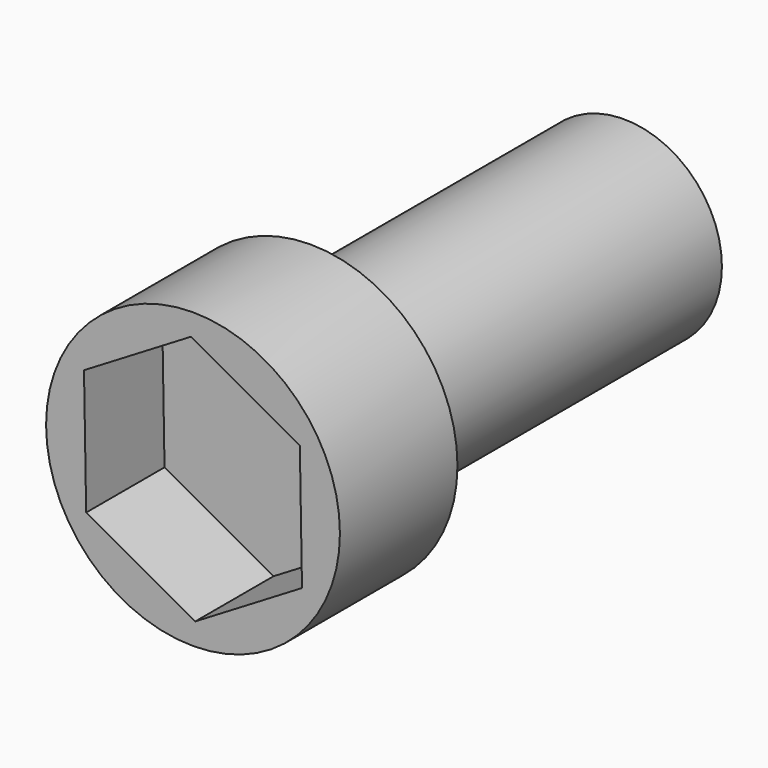
from build123d import *

# Parameters (mm, degrees)
F0_R     = 1.27
F1_DEPTH = 5.08
F2_R     = 1.905
F2_R_2   = 1.27
F3_DEPTH = 1.905
F5_DEPTH = 1.27


with BuildPart() as f1:
    # F0 (on Front) → F1 (new body)
    with BuildSketch(Plane.XZ):
        Circle(F0_R)
    extrude(amount=F1_DEPTH)

    # F2 (on face) → F3 (join)
    with BuildSketch(Plane.XZ.offset(5.08)):
        Circle(F2_R)
        Circle(F2_R_2, mode=Mode.SUBTRACT)
        Circle(F2_R_2)
    extrude(amount=F3_DEPTH)

    # F4 (on face) → F5 (cut)
    with BuildSketch(Plane.XZ.offset(6.985)):
        Polygon((1.385297, 0.832218), (-0.028074, 1.615811), (-1.413371, 0.783593), (-1.385297, -0.832218), (0.028074, -1.615811), (1.413371, -0.783593), align=None)
    extrude(amount=-F5_DEPTH, mode=Mode.SUBTRACT)


solid = f1.part
